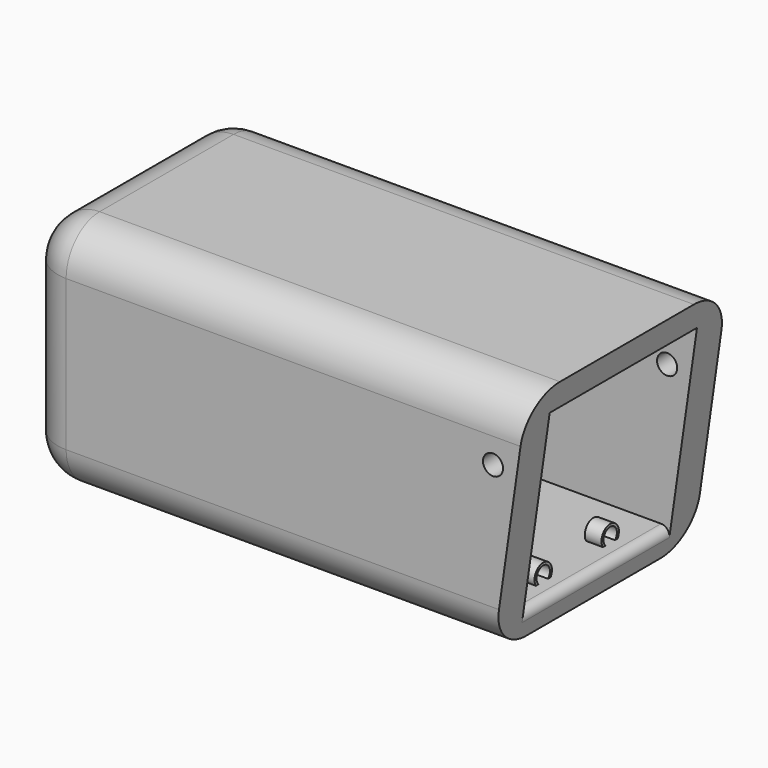
from build123d import *

# Parameters (mm, degrees)
F0_W           = 30
F0_H           = 14
F1_DEPTH       = 15
F2_W           = 11
F2_H           = 11
F3_DEPTH       = 28
F5_R           = 0.65
F5_R_2         = 0.5
F6_DEPTH       = 1
F8_DEPTH       = 25
F9_R           = 2.5
F10_R          = 0.6
F11_DEPTH      = 20
F13_R          = 0.65
F13_R_2        = 0.5
F14_DEPTH      = 1
F15_R          = 0.5
F17_R          = 0.65
F17_R_2        = 0.5
F18_DEPTH      = 0.5
F18_DEPTH_BACK = 0.5
F19_R          = 0.65
F19_R_2        = 0.5
F20_DEPTH      = 1


with BuildPart() as f1:
    # F0 (on Front) → F1 (new body)
    with BuildSketch(Plane.XZ):
        Rectangle(F0_W, F0_H)
    extrude(amount=F1_DEPTH)

    # F2 (on face) → F3 (cut)
    with BuildSketch(Plane.YZ.offset(15)):
        with Locations((-7.5, 0)):
            Rectangle(F2_W, F2_H)
    extrude(amount=-F3_DEPTH, mode=Mode.SUBTRACT)

    # F5 (on offset) → F6 (join)
    with BuildSketch(Plane.YZ.offset(12)):
        with Locations((-10, -5.15)):
            Circle(F5_R)
        with Locations((-10, -5.15)):
            Circle(F5_R_2, mode=Mode.SUBTRACT)
        with Locations((-5, -5.15)):
            Circle(F5_R)
        with Locations((-5, -5.15)):
            Circle(F5_R_2, mode=Mode.SUBTRACT)
    extrude(amount=-F6_DEPTH)

    # F7 (on face) → F8 (cut)
    with BuildSketch(Plane(origin=(0, 0, 0), x_dir=(-1, 0, 0), z_dir=(0, 1, 0))):
        Polygon((-13, -7), (-15, 7), (-15, -7), align=None)
    extrude(amount=-F8_DEPTH, mode=Mode.SUBTRACT)

    # F9
    f9_edges = [f1.edges().sort_by_distance(p)[0] for p in [
        (0, 0, 7),
        (0, -15, 7),
        (-1, 0, -7),
        (-15, -7.5, 7),
        (-15, -7.5, -7),
        (-15, 0, 0),
        (-15, -15, 0),
        (-1, -15, -7),
    ]]
    fillet(f9_edges, radius=F9_R)

    # F10 (on face) → F11 (cut)
    with BuildSketch(Plane.XZ.offset(15)):
        with Locations((13, 3)):
            Circle(F10_R)
    extrude(amount=-F11_DEPTH, mode=Mode.SUBTRACT)

    # F13 (on offset) → F14 (join)
    with BuildSketch(Plane.YZ.offset(-10)):
        with Locations((-10, -5.15)):
            Circle(F13_R)
        with Locations((-10, -5.15)):
            Circle(F13_R_2, mode=Mode.SUBTRACT)
        with Locations((-5, -5.15)):
            Circle(F13_R)
        with Locations((-5, -5.15)):
            Circle(F13_R_2, mode=Mode.SUBTRACT)
    extrude(amount=F14_DEPTH)

    # F15
    f15_edges = [f1.edges().sort_by_distance(p)[0] for p in [
        (13.214286, -7.5, -5.5),
    ]]
    fillet(f15_edges, radius=F15_R)

    # F17 (on offset) → F18 (join, two sides)
    with BuildSketch(Plane.YZ.offset(8)) as f18_sk:
        with Locations((-10, 5.15)):
            Circle(F17_R)
        with Locations((-10, 5.15)):
            Circle(F17_R_2, mode=Mode.SUBTRACT)
        with Locations((-5, 5.15)):
            Circle(F17_R)
        with Locations((-5, 5.15)):
            Circle(F17_R_2, mode=Mode.SUBTRACT)
    extrude(amount=F18_DEPTH)
    extrude(f18_sk.sketch, amount=-F18_DEPTH_BACK)

    # F19 (on offset) → F20 (join)
    with BuildSketch(Plane.YZ.offset(-10)):
        with Locations((-10, 5.15)):
            Circle(F19_R)
        with Locations((-10, 5.15)):
            Circle(F19_R_2, mode=Mode.SUBTRACT)
        with Locations((-5, 5.15)):
            Circle(F19_R)
        with Locations((-5, 5.15)):
            Circle(F19_R_2, mode=Mode.SUBTRACT)
    extrude(amount=F20_DEPTH)


solid = f1.part
